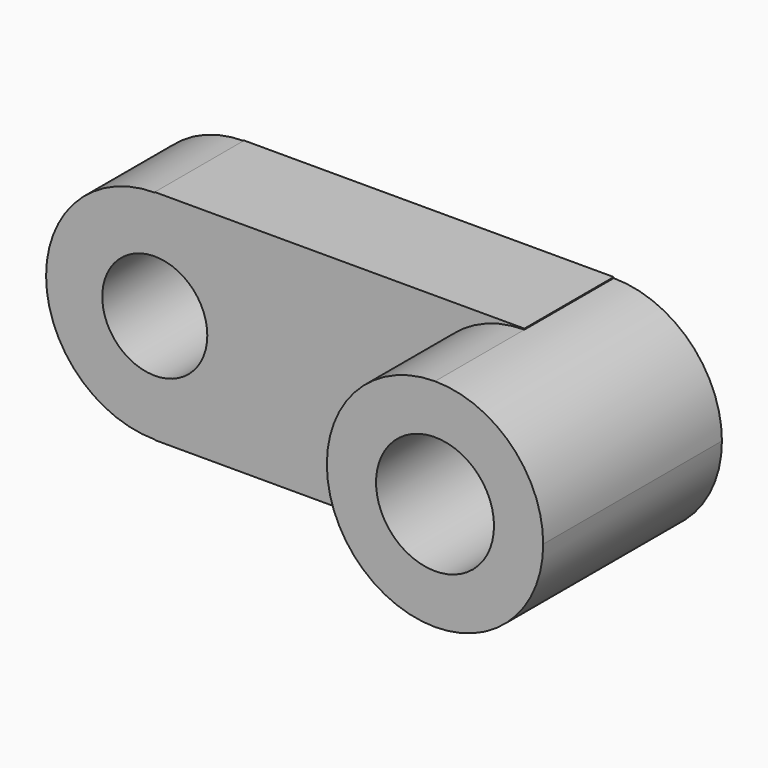
from build123d import *

# Parameters (mm, degrees)
F3_DEPTH = 50.8
F4_DEPTH = 25.4
F5_R     = 11.945502
F6_DEPTH = 25.401
F7_R     = 13.410592
F8_DEPTH = 50.801


with BuildPart() as f3:
    # F2 (on face) → F3 (new body)
    with BuildSketch(Plane.XZ):
        with BuildLine():
            Line((42.025454, -24.601573), (42.025454, 24.601573))
            ThreePointArc((42.025454, 24.601573), (17.423881, 0), (42.025454, -24.601573))
        make_face()
        with BuildLine():
            ThreePointArc((42.025454, -24.601573), (59.421394, -17.395939), (66.627028, 0))
            ThreePointArc((66.627028, 0), (59.421394, 17.395939), (42.025454, 24.601573))
            Line((42.025454, 24.601573), (42.025454, -24.601573))
        make_face()
    extrude(amount=F3_DEPTH)

    # F1 (on face) → F4 (join)
    with BuildSketch(Plane.XZ):
        with BuildLine():
            ThreePointArc((-42.025454, 24.720491), (-24.545428, 17.480027), (-17.304963, 0))
            ThreePointArc((-17.304963, 0), (-24.545428, -17.480027), (-42.025454, -24.720491))
            Line((-42.025454, -24.720491), (-42.025454, -24.822727))
            Line((-42.025454, -24.822727), (42.025454, -24.822727))
            Line((42.025454, -24.822727), (42.025454, 24.822727))
            Line((42.025454, 24.822727), (-42.025454, 24.822727))
            Line((-42.025454, 24.822727), (-42.025454, 24.720491))
        make_face()
        with BuildLine():
            Line((-42.025454, -24.720491), (-42.025454, 24.720491))
            ThreePointArc((-42.025454, 24.720491), (-66.745945, 0), (-42.025454, -24.720491))
        make_face()
        with BuildLine():
            ThreePointArc((-42.025454, -24.720491), (-24.545428, -17.480027), (-17.304963, 0))
            ThreePointArc((-17.304963, 0), (-24.545428, 17.480027), (-42.025454, 24.720491))
            Line((-42.025454, 24.720491), (-42.025454, -24.720491))
        make_face()
    extrude(amount=F4_DEPTH)

    # F5 (on face) → F6 (cut, through all)
    with BuildSketch(Plane.XZ.offset(25.4)):
        with Locations((-42.025454, 0)):
            Circle(F5_R)
    extrude(amount=-F6_DEPTH, mode=Mode.SUBTRACT)

    # F7 (on face) → F8 (cut, through all)
    with BuildSketch(Plane.XZ.offset(50.8)):
        with Locations((42.025454, 0)):
            Circle(F7_R)
    extrude(amount=-F8_DEPTH, mode=Mode.SUBTRACT)


solid = f3.part
